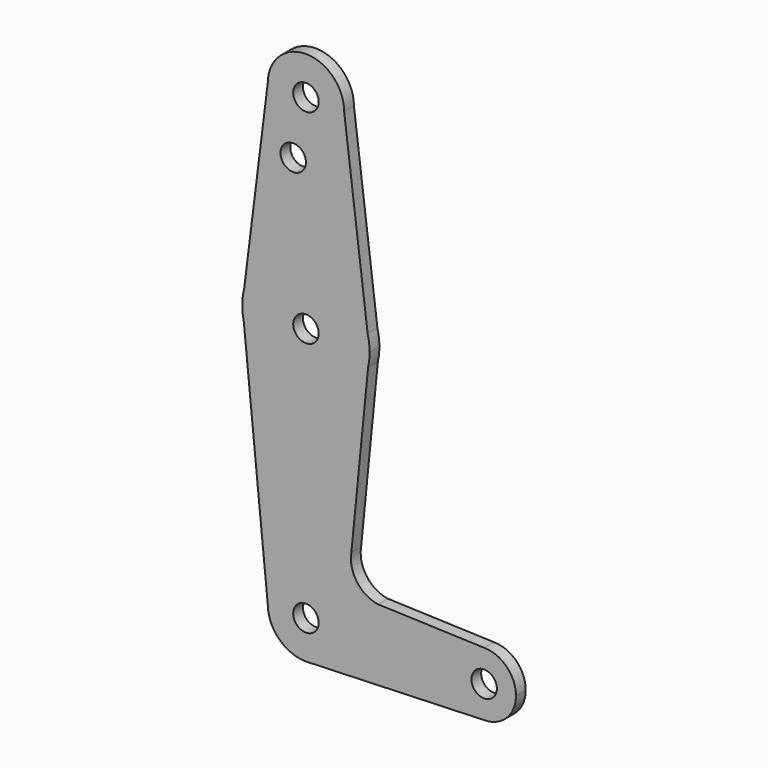
from build123d import *

# Parameters (mm, degrees)
F0_R     = 3.175
F1_DEPTH = 3.048


with BuildPart() as f1:
    # F0 (on Front) → F1 (new body)
    with BuildSketch(Plane.XZ):
        with BuildLine():
            ThreePointArc((-9.525, 114.3), (0, 104.775), (9.525, 114.3))
            ThreePointArc((9.525, 114.3), (0, 123.825), (-9.525, 114.3))
        make_face()
        with Locations((0, 114.3)):
            Circle(F0_R, mode=Mode.SUBTRACT)
        with BuildLine():
            Line((15.386538, 67.407692), (9.525, 114.3))
            ThreePointArc((9.525, 114.3), (0, 104.775), (-9.525, 114.3))
            Line((-9.525, 114.3), (-15.386538, 67.407692))
            ThreePointArc((-15.386538, 67.407692), (0, 79.375), (15.386538, 67.407692))
        make_face()
        with Locations((-3.175, 100.0252)):
            Circle(F0_R, mode=Mode.SUBTRACT)
        with BuildLine():
            Line((15.875, 63.5), (15.386538, 67.407692))
            ThreePointArc((15.386538, 67.407692), (0, 79.375), (-15.386538, 67.407692))
            Line((-15.386538, 67.407692), (-15.875, 63.5))
            ThreePointArc((-15.875, 63.5), (-15.779409, 61.760499), (-15.493789, 60.041947))
            ThreePointArc((-15.493789, 60.041947), (0, 47.625), (15.493789, 60.041947))
            ThreePointArc((15.493789, 60.041947), (15.779409, 61.760499), (15.875, 63.5))
        make_face()
        with Locations((0, 63.5)):
            Circle(F0_R, mode=Mode.SUBTRACT)
        with BuildLine():
            ThreePointArc((15.875, 63.5), (15.752411, 65.469051), (15.386538, 67.407692))
            Line((15.386538, 67.407692), (15.875, 63.5))
        make_face()
        with BuildLine():
            Line((-15.875, 63.5), (-15.386538, 67.407692))
            ThreePointArc((-15.386538, 67.407692), (-15.752411, 65.469051), (-15.875, 63.5))
        make_face()
        with BuildLine():
            Line((11.321938, 18.075972), (15.493789, 60.041947))
            ThreePointArc((15.493789, 60.041947), (0, 47.625), (-15.493789, 60.041947))
            Line((-15.493789, 60.041947), (-9.525, 0))
            ThreePointArc((-9.525, 0), (0, 9.525), (9.525, 0))
            ThreePointArc((9.525, 0), (6.971438, -6.490353), (0.679923, -9.500702))
            Line((0.679923, -9.500702), (44.421643, -7.9375))
            ThreePointArc((44.421643, -7.9375), (36.484143, 0), (44.421643, 7.9375))
            Line((44.421643, 7.9375), (17.934372, 8.882003))
            ThreePointArc((17.934372, 8.882003), (12.704372, 12.095375), (11.321938, 18.075972))
        make_face()
        with BuildLine():
            ThreePointArc((9.525, 0), (0, 9.525), (-9.525, 0))
            ThreePointArc((-9.525, 0), (-6.735192, -6.735192), (0, -9.525))
            Line((0, -9.525), (0.679923, -9.500702))
            ThreePointArc((0.679923, -9.500702), (6.971438, -6.490353), (9.525, 0))
        make_face()
        Circle(F0_R, mode=Mode.SUBTRACT)
        with BuildLine():
            Line((0.679923, -9.500702), (0, -9.525))
            ThreePointArc((0, -9.525), (0.340179, -9.518923), (0.679923, -9.500702))
        make_face()
        with BuildLine():
            ThreePointArc((52.359143, 0), (50.034303, 5.61266), (44.421643, 7.9375))
            ThreePointArc((44.421643, 7.9375), (36.484143, 0), (44.421643, -7.9375))
            ThreePointArc((44.421643, -7.9375), (50.034303, -5.61266), (52.359143, 0))
        make_face()
        with Locations((44.421643, 0)):
            Circle(F0_R, mode=Mode.SUBTRACT)
    extrude(amount=F1_DEPTH)


solid = f1.part
